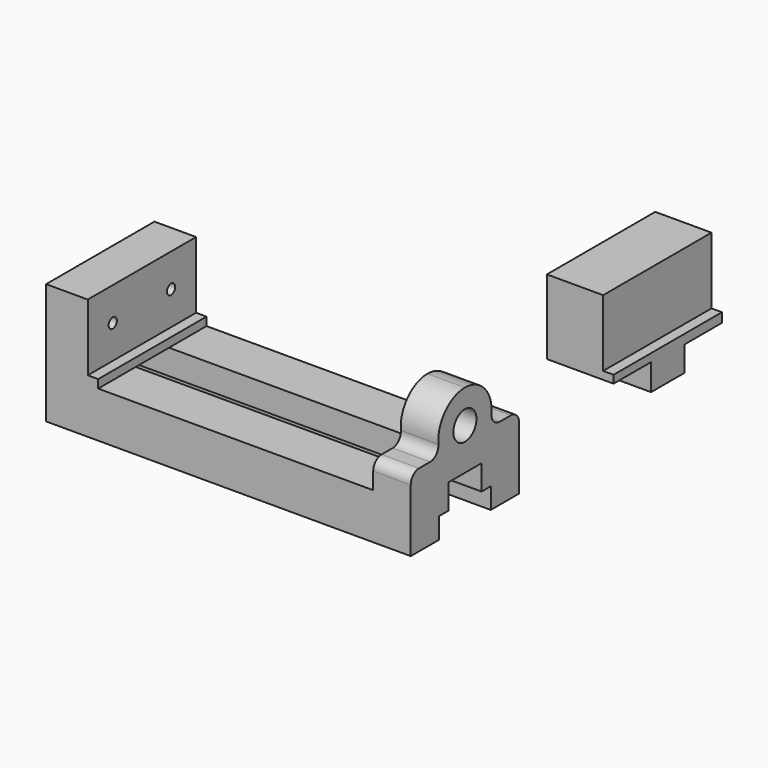
from build123d import *

# Parameters (mm, degrees)
F0_W            = 175
F0_H            = 58
F1_DEPTH        = 32.5
F3_DEPTH        = 175
F5_DEPTH        = 65
F6_R            = 6.92
F7_DEPTH        = 25
F8_R            = 5
F9_R            = 2.46
F10_DEPTH       = 25
F13_DEPTH       = 32
F14_W           = 5
F14_H           = 32
F15_DEPTH       = 70
F17_D           = 5
F17_DEPTH       = 12
F17_CSINK_D     = 6
F17_CSINK_ANGLE = 85.9436692696
F17_TIP         = 1.5021515476


with BuildPart() as f1:
    # F0 (on Front) → F1 (new body, symmetric)
    with BuildSketch(Plane.XZ):
        with Locations((-2.832442522, -62.7785622664)):
            Rectangle(F0_W, F0_H)
    extrude(amount=F1_DEPTH, both=True)

    # F2 (on face) → F3 (cut)
    with BuildSketch(Plane(origin=(-90.332442522, 0, 0), x_dir=(0, -1, 0), z_dir=(-1, 0, 0))):
        Polygon((-15.5, -91.7785622664), (0, -91.7785622664), (15.5, -91.7785622664), (15.5, -81.7785622664), (10, -81.7785622664), (10, -69.7785622664), (0, -69.7785622664), (-10, -69.7785622664), (-10, -81.7785622664), (-15.5, -81.7785622664), align=None)
    extrude(amount=-F3_DEPTH, mode=Mode.SUBTRACT)

    # F4 (on face) → F5 (cut)
    with BuildSketch(Plane.XZ.offset(32.5)):
        Polygon((-70.332442522, -33.7785622664), (-70.332442522, -65.7785622664), (-65.332442522, -65.7785622664), (-65.332442522, -69.7785622664), (66.667557478, -69.7785622664), (66.667557478, -33.7785622664), align=None)
    extrude(amount=-F5_DEPTH, mode=Mode.SUBTRACT)

    # F6 (on face) → F7 (cut)
    with BuildSketch(Plane.YZ.offset(84.667557478)):
        with BuildLine():
            ThreePointArc((0, -33.7785622664), (11.313708499, -38.4648537674), (16, -49.7785622664))
            ThreePointArc((16, -49.7785622664), (15.6015750322, -53.32692196), (14.4261429357, -56.6985622664))
            Line((14.4261429357, -56.6985622664), (32.5, -56.6985622664))
            Line((32.5, -56.6985622664), (32.5, -33.7785622664))
            Line((32.5, -33.7785622664), (0, -33.7785622664))
        make_face()
        with BuildLine():
            ThreePointArc((-14.4261429357, -56.6985622664), (-13.5410487038, -41.2556519654), (0, -33.7785622664))
            Line((0, -33.7785622664), (-32.5, -33.7785622664))
            Line((-32.5, -33.7785622664), (-32.5, -56.6985622664))
            Line((-32.5, -56.6985622664), (-14.4261429357, -56.6985622664))
        make_face()
        with Locations((0, -49.7785622664)):
            Circle(F6_R)
    extrude(amount=-F7_DEPTH, mode=Mode.SUBTRACT)

    # F8
    f8_edges = [f1.edges().sort_by_distance(p)[0] for p in [
        (75.667557, -14.426143, -56.698562),
        (75.667557, 14.426143, -56.698562),
        (75.667557, 32.5, -56.698562),
        (75.667557, -32.5, -56.698562),
    ]]
    fillet(f8_edges, radius=F8_R)

    # F9 (on face) → F10 (cut)
    with BuildSketch(Plane(origin=(-90.332442522, 0, 0), x_dir=(0, -1, 0), z_dir=(-1, 0, 0))):
        with Locations((17.5, -49.7785622664)):
            Circle(F9_R)
        with Locations((-17.5, -49.7785622664)):
            Circle(F9_R)
    extrude(amount=-F10_DEPTH, mode=Mode.SUBTRACT)


with BuildPart() as f13:
    # F12 (on offset) → F13 (new body)
    with BuildSketch(Plane.YZ.offset(150)):
        Polygon((0, 0), (10, 0), (10, 12), (32.5, 12), (32.5, 48.5), (0, 48.5), (-32.5, 48.5), (-32.5, 12.7285346389), (-10, 12.7285346389), (-10, 0), align=None)
    extrude(amount=F13_DEPTH)

    # F14 (on face) → F15 (cut)
    with BuildSketch(Plane.XZ.offset(32.5)):
        with Locations((179.5, 32.5)):
            Rectangle(F14_W, F14_H)
    extrude(amount=-F15_DEPTH, mode=Mode.SUBTRACT)

    # F17
    with Locations(Plane(origin=(0, 0, 0), x_dir=(1, 0, 0), z_dir=(0, 0, -1))):
        with Locations((176, 0), (156, 0)):
            CounterSinkHole(F17_D / 2, F17_CSINK_D / 2, depth=F17_DEPTH, counter_sink_angle=F17_CSINK_ANGLE)
            with Locations((0, 0, -(F17_DEPTH + F17_TIP / 2))):  # 118° drill point
                Cone(0, F17_D / 2, F17_TIP, mode=Mode.SUBTRACT)


solid = Compound([f1.part, f13.part])
